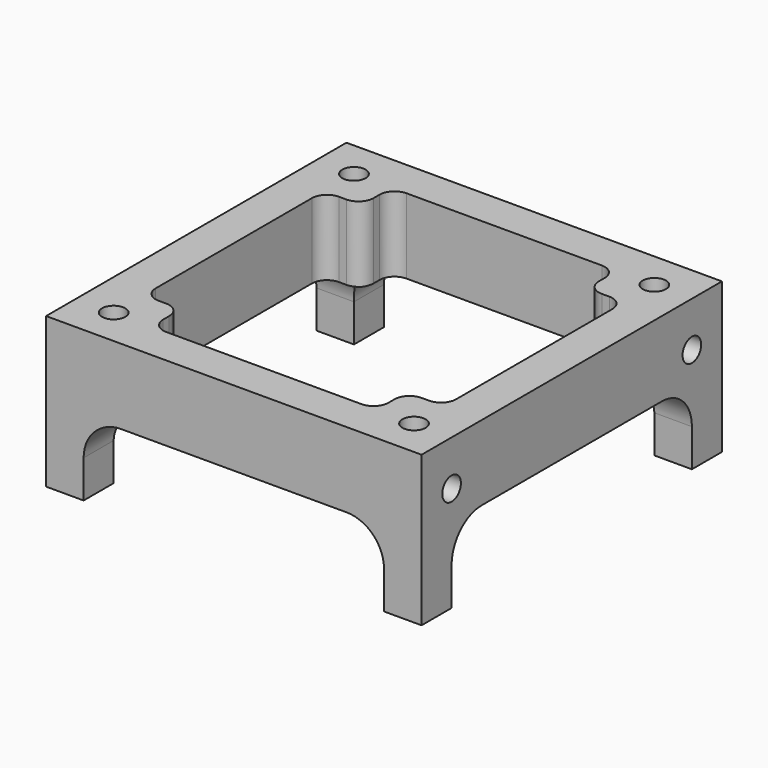
from build123d import *

# Parameters (mm, degrees)
SKETCH232_W             = 50
SKETCH232_H             = 50
PAD039_DEPTH            = 20
POCKET194_DEPTH         = 20.001
POCKET195_DEPTH         = 50.001
POCKET196_DEPTH         = 50.001
SKETCH236_R             = 1.55
POCKET197_DEPTH         = 5
SKETCH237_R             = 1.55
POCKET198_DEPTH         = 3
SKETCH238_R             = 1.55
POCKET199_DEPTH         = 3
BODY040_PLACEMENT_ANGLE = 180


with BuildPart() as part:
    # Sketch232 → Pad039 (new body)
    with BuildSketch(Plane.XY):
        Rectangle(SKETCH232_W, SKETCH232_H)
    extrude(amount=PAD039_DEPTH)

    # Sketch233 (on Face6 of Pad039) → Pocket194 (cut, through all)
    with BuildSketch(Plane.XY.offset(20)):
        with BuildLine():
            Line((-18, 15), (-17, 15))
            ThreePointArc((-17, 15), (-15.585786, 15.585786), (-15, 17))
            Line((-15, 17), (-15, 18))
            ThreePointArc((-13, 20), (-14.414214, 19.414214), (-15, 18))
            Line((-13, 20), (13, 20))
            ThreePointArc((15, 18), (14.414214, 19.414214), (13, 20))
            Line((15, 18), (15, 17))
            ThreePointArc((15, 17), (15.585786, 15.585786), (17, 15))
            Line((17, 15), (18, 15))
            ThreePointArc((20, 13), (19.414214, 14.414214), (18, 15))
            Line((20, 13), (20, -13))
            ThreePointArc((18, -15), (19.414214, -14.414214), (20, -13))
            Line((18, -15), (17, -15))
            ThreePointArc((17, -15), (15.585786, -15.585786), (15, -17))
            Line((15, -17), (15, -18))
            ThreePointArc((13, -20), (14.414214, -19.414214), (15, -18))
            Line((13, -20), (-13, -20))
            ThreePointArc((-15, -18), (-14.414214, -19.414214), (-13, -20))
            Line((-15, -18), (-15, -17))
            ThreePointArc((-15, -17), (-15.585786, -15.585786), (-17, -15))
            Line((-17, -15), (-18, -15))
            ThreePointArc((-20, -13), (-19.414214, -14.414214), (-18, -15))
            Line((-20, -13), (-20, 13))
            ThreePointArc((-18, 15), (-19.414214, 14.414214), (-20, 13))
        make_face()
    extrude(amount=-POCKET194_DEPTH, mode=Mode.SUBTRACT)

    # Sketch234 (on Face3 of Pocket194) → Pocket195 (cut, through all)
    with BuildSketch(Plane.YZ.offset(25)):
        with BuildLine():
            Line((-15, 10), (15, 10))
            ThreePointArc((20, 5), (18.535534, 8.535534), (15, 10))
            Line((20, 5), (20, 0))
            Line((20, 0), (-20, 0))
            Line((-20, 0), (-20, 5))
            ThreePointArc((-15, 10), (-18.535534, 8.535534), (-20, 5))
        make_face()
    extrude(amount=-POCKET195_DEPTH, mode=Mode.SUBTRACT)

    # Sketch235 (on Face6 of Pocket194) → Pocket196 (cut, through all)
    with BuildSketch(Plane.XZ.offset(25)):
        with BuildLine():
            Line((-15, 10), (15, 10))
            ThreePointArc((20, 5), (18.535534, 8.535534), (15, 10))
            Line((20, 5), (20, 0))
            Line((20, 0), (-20, 0))
            Line((-20, 0), (-20, 5))
            ThreePointArc((-15, 10), (-18.535534, 8.535534), (-20, 5))
        make_face()
    extrude(amount=-POCKET196_DEPTH, mode=Mode.SUBTRACT)

    # Sketch236 → Pocket197 (cut)
    with BuildSketch(Plane.XY.offset(20)):
        with Locations((-20, 20)):
            Circle(SKETCH236_R)
        with Locations((20, 20)):
            Circle(SKETCH236_R)
        with Locations((20, -20)):
            Circle(SKETCH236_R)
        with Locations((-20, -20)):
            Circle(SKETCH236_R)
    extrude(amount=-POCKET197_DEPTH, mode=Mode.SUBTRACT)

    # Sketch237 (on Face27 of Pocket197) → Pocket198 (cut)
    with BuildSketch(Plane.XZ.offset(25)):
        with Locations((-20, 14)):
            Circle(SKETCH237_R)
        with Locations((20, 14)):
            Circle(SKETCH237_R)
    extrude(amount=-POCKET198_DEPTH, mode=Mode.SUBTRACT)

    # Sketch238 (on Face11 of Pocket198) → Pocket199 (cut)
    with BuildSketch(Plane(origin=(-25, 0, 0), x_dir=(0, -1, 0), z_dir=(-1, 0, 0))):
        with Locations((-20, 14)):
            Circle(SKETCH238_R)
        with Locations((20, 14)):
            Circle(SKETCH238_R)
    extrude(amount=-POCKET199_DEPTH, mode=Mode.SUBTRACT)


with BuildPart() as part_1:
    # Body040 placement: moved
    add(part.part.moved(Location((145, 145, 0))).rotate(Axis((145, 145, 0), (0, 0, 1)), BODY040_PLACEMENT_ANGLE))


solid = part_1.part
